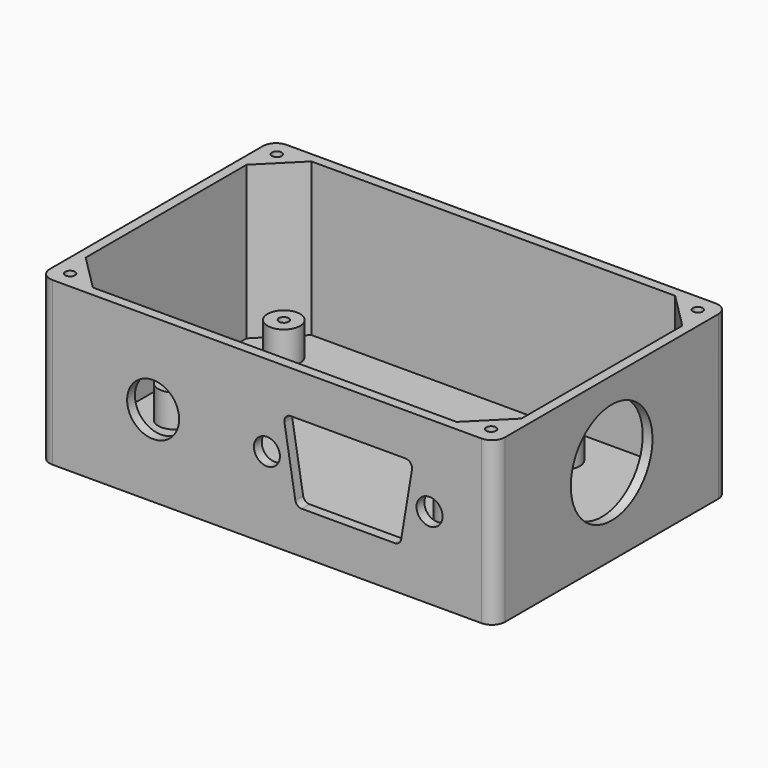
from build123d import *

# Parameters (mm, degrees)
SKETCH006_W     = 70
SKETCH006_H     = 45
PAD004_DEPTH    = 25
POCKET002_DEPTH = 23.5
SKETCH008_R     = 2.5
SKETCH008_R_2   = 0.75
PAD005_DEPTH    = 6.5
SKETCH009_R     = 7.85
POCKET003_DEPTH = 5
SKETCH010_R     = 4
SKETCH010_R_2   = 2
POCKET004_DEPTH = 5
PAD006_DEPTH    = 1.5
FILLET_R        = 2
SKETCH012_R     = 0.75
POCKET005_DEPTH = 15


with BuildPart() as part:
    # Sketch006 (on Face1 of ReferencePocket) → Pad004 (new body)
    with BuildSketch(Plane(origin=(0, 0, 0), x_dir=(1, 0, 0), z_dir=(0, 0, -1))):
        Rectangle(SKETCH006_W, SKETCH006_H)
    extrude(amount=-PAD004_DEPTH)

    # Sketch007 (on Face6 of Pad004) → Pocket002 (cut)
    with BuildSketch(Plane.XY.offset(25)):
        Polygon((-33.5, -15.4644660941), (-33.5, 15.4644660941), (-27.9644660941, 21), (27.9644660941, 21), (33.5, 15.4644660941), (33.5, -15.4644660941), (27.9644660941, -21), (-27.9644660941, -21), align=None)
    extrude(amount=-POCKET002_DEPTH, mode=Mode.SUBTRACT)

    # Sketch008 (on Face1 of ReferencePocket) → Pad005 (join)
    with BuildSketch(Plane(origin=(0, 0, 0), x_dir=(1, 0, 0), z_dir=(0, 0, -1))):
        with Locations((-27, 6.5)):
            Circle(SKETCH008_R)
        with Locations((-27, 6.5)):
            Circle(SKETCH008_R_2, mode=Mode.SUBTRACT)
        with Locations((16, 6.5)):
            Circle(SKETCH008_R)
        with Locations((16, 6.5)):
            Circle(SKETCH008_R_2, mode=Mode.SUBTRACT)
        with Locations((16, -14.5)):
            Circle(SKETCH008_R)
        with Locations((16, -14.5)):
            Circle(SKETCH008_R_2, mode=Mode.SUBTRACT)
        with Locations((-27, -14.5)):
            Circle(SKETCH008_R)
        with Locations((-27, -14.5)):
            Circle(SKETCH008_R_2, mode=Mode.SUBTRACT)
    extrude(amount=-PAD005_DEPTH)

    # Sketch009 (on Face14 of Pad005) → Pocket003 (cut)
    with BuildSketch(Plane(origin=(33.5, 0, 0), x_dir=(0, -1, 0), z_dir=(-1, 0, 0))):
        with Locations((0, 13.25)):
            Circle(SKETCH009_R)
    extrude(amount=-POCKET003_DEPTH, mode=Mode.SUBTRACT)

    # Sketch010 (on Face1 of Pocket003) → Pocket004 (cut)
    with BuildSketch(Plane.XZ.offset(22.5)):
        with Locations((-17.5, 12.5)):
            Circle(SKETCH010_R)
        with Locations((0, 12.5)):
            Circle(SKETCH010_R_2)
        with Locations((25, 12.5)):
            Circle(SKETCH010_R_2)
        Polygon((2.5, 18.5), (22.5, 18.5), (20.5, 6.5), (4.5, 6.5), align=None)
    extrude(amount=-POCKET004_DEPTH, mode=Mode.SUBTRACT)

    # Sketch011 (on Face1 of Pocket004) → Pad006 (join)
    with BuildSketch(Plane.XZ.offset(22.5)):
        with BuildLine():
            ThreePointArc((22.3059335071, 17.3356010429), (22.0825595608, 18.1463748961), (21.3195396089, 18.5))
            Line((21.3195396089, 18.5), (22.5, 18.5))
            Line((22.5, 18.5), (22.3059335071, 17.3356010429))
        make_face()
        with BuildLine():
            ThreePointArc((3.6804604217, 18.5), (2.9174404392, 18.1463748961), (2.6940664979, 17.3356010127))
            Line((2.5, 18.5), (2.6940664979, 17.3356010127))
            Line((3.6804604217, 18.5), (2.5, 18.5))
        make_face()
        with BuildLine():
            ThreePointArc((4.3607346062, 7.3355923631), (4.7007521923, 6.7369800175), (5.3471183194, 6.5))
            Line((4.5, 6.5), (5.3471183194, 6.5))
            Line((4.3607346062, 7.3355923631), (4.5, 6.5))
        make_face()
        with BuildLine():
            ThreePointArc((19.6528729116, 6.5), (20.2992478077, 6.7369800175), (20.6392668354, 7.3356010127))
            Line((20.6392668354, 7.3356010127), (20.5, 6.5))
            Line((20.5, 6.5), (19.6528729116, 6.5))
        make_face()
    extrude(amount=-PAD006_DEPTH)

    # Fillet
    fillet_edges = [part.edges().sort_by_distance(p)[0] for p in [
        (35, -22.5, 12.5),
        (-35, -22.5, 12.5),
        (35, 22.5, 12.5),
        (-35, 22.5, 12.5),
    ]]
    fillet(fillet_edges, radius=FILLET_R)

    # Sketch012 (on Face5 of Fillet) → Pocket005 (cut)
    with BuildSketch(Plane.XY.offset(25)):
        with Locations((-32.3661165235, 19.8661165235)):
            Circle(SKETCH012_R)
        with Locations((32.3661165235, 19.8661165235)):
            Circle(SKETCH012_R)
        with Locations((32.3661165235, -19.8661165235)):
            Circle(SKETCH012_R)
        with Locations((-32.3661165235, -19.8661165235)):
            Circle(SKETCH012_R)
    extrude(amount=-POCKET005_DEPTH, mode=Mode.SUBTRACT)


solid = part.part
